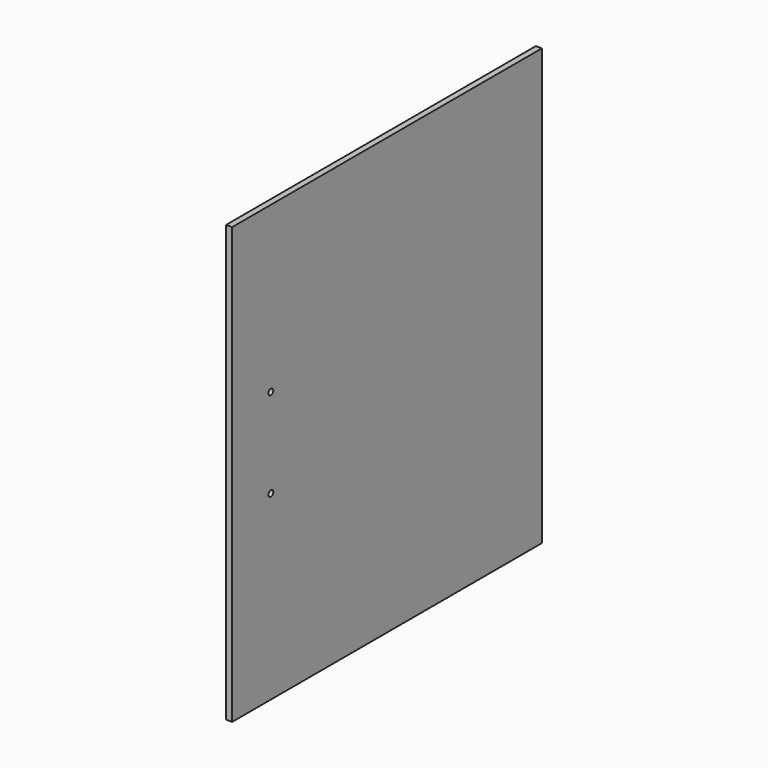
from build123d import *

# Parameters (mm, degrees)
F0_W     = 406.4
F0_H     = 457.2
F1_DEPTH = 6.35
F2_R     = 3.175
F3_DEPTH = 6.351


with BuildPart() as f1:
    # F0 (on Right) → F1 (new body)
    with BuildSketch(Plane.YZ):
        Rectangle(F0_W, F0_H)
    extrude(amount=F1_DEPTH)

    # F2 (on face) → F3 (cut, through all)
    with BuildSketch(Plane.YZ.offset(6.35)):
        with Locations((-152.4, -38.1)):
            Circle(F2_R)
        with Locations((-152.4, 55.5625)):
            Circle(F2_R)
    extrude(amount=-F3_DEPTH, mode=Mode.SUBTRACT)


solid = f1.part
